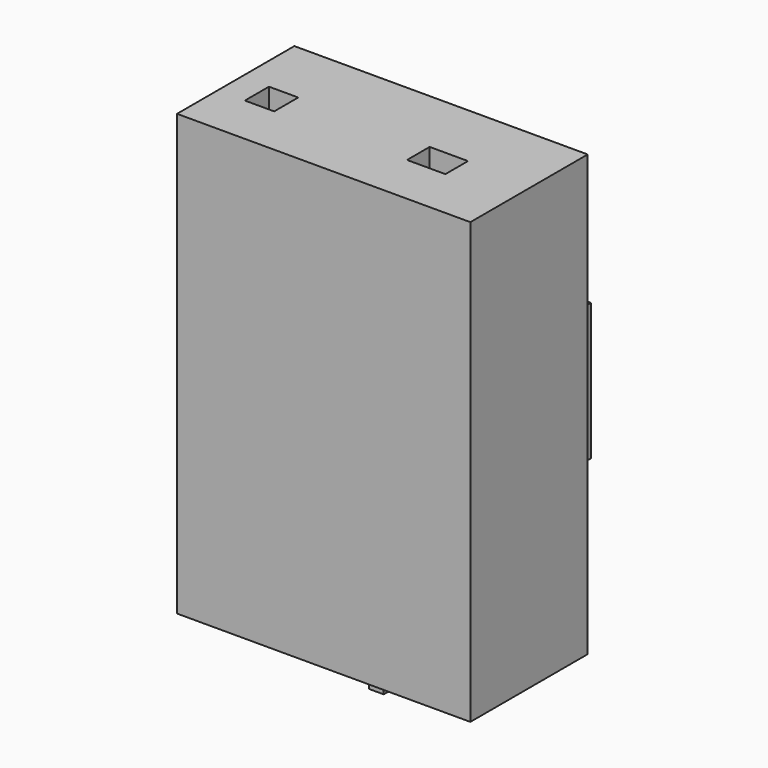
from build123d import *

# Parameters (mm, degrees)
F0_W     = 508
F0_H     = 762
F1_DEPTH = 254
F2_W     = 144.9282839894
F2_H     = 129.3575018644
F3_DEPTH = 127
F4_W     = 153.4224897623
F4_H     = 32.7441394329
F5_DEPTH = 25.4
F6_W     = 50.7672429085
F6_H     = 52.0987808704
F6_W_2   = 66.4442628622
F6_H_2   = 48.9581227303
F7_DEPTH = 508


with BuildPart() as f1:
    # F0 (on Front) → F1 (new body)
    with BuildSketch(Plane.XZ):
        with Locations((-1.2987554073, 42.4313310723)):
            Rectangle(F0_W, F0_H)
    extrude(amount=F1_DEPTH)

    # F6 (on Top) → F7 (cut)
    with BuildSketch(Plane.XY):
        with Locations((-182.5101822615, -140.3568685055)):
            Rectangle(F6_W, F6_H)
        with Locations((105.2653864026, -140.7729238272)):
            Rectangle(F6_W_2, F6_H_2)
    extrude(amount=F7_DEPTH, mode=Mode.SUBTRACT)


with BuildPart() as f3:
    # F2 (on Front) → F3 (new body)
    with BuildSketch(Plane.XZ):
        Polygon((156.8048298359, -122.8587776423), (156.8048298359, 114.2966076732), (-145.0293064117, 114.2966076732), (-145.0293064117, -122.8587776423), (-67.1752467752, -122.8587776423), (77.7530372143, -122.8587776423), align=None)
        with Locations((5.2888952196, -187.5375285745)):
            Rectangle(F2_W, F2_H)
    extrude(amount=-F3_DEPTH)


with BuildPart() as f5:
    # F4 (on Right) → F5 (new body)
    with BuildSketch(Plane.YZ):
        Polygon((-70.8707123995, -377.0208656788), (-70.8707123995, 261.8890404701), (-157.4290394783, 261.8890404701), (-157.4290394783, -409.7650051117), (-70.8707123995, -409.7650051117), align=None)
        with Locations((5.8405324817, -393.3929353952)):
            Rectangle(F4_W, F4_H)
    extrude(amount=F5_DEPTH)


solid = Compound([f1.part, f3.part, f5.part])
